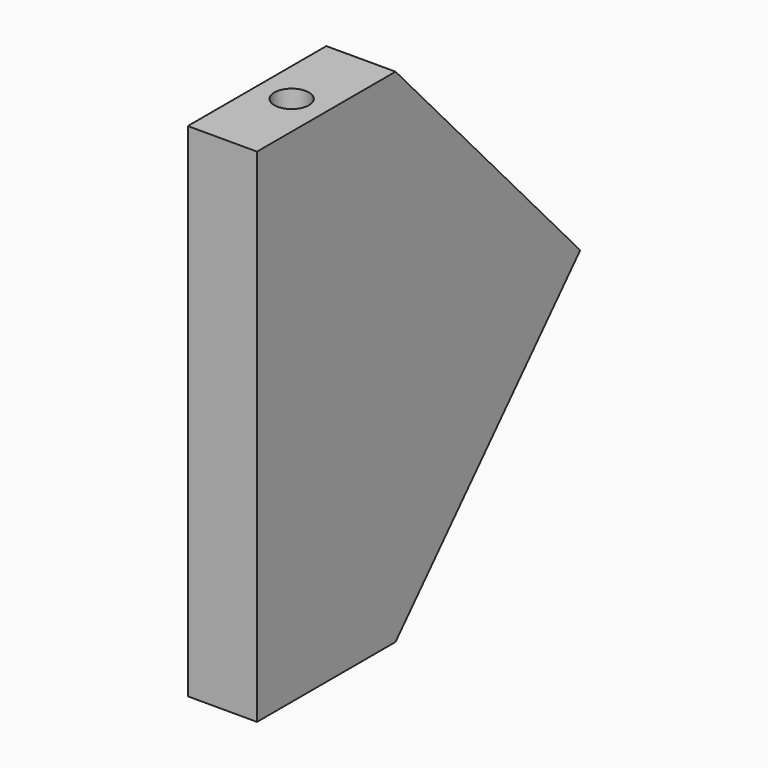
from build123d import *

# Parameters (mm, degrees)
F1_DEPTH = 12
F2_R     = 3
F3_DEPTH = 20
F4_R     = 3
F5_DEPTH = 20
F6_W     = 30
F6_H     = 87
F7_DEPTH = 25


with BuildPart() as f1:
    # F0 (on Right) → F1 (new body)
    with BuildSketch(Plane.YZ):
        Polygon((0, 87), (0, 0), (60, 0), (100, 43.5), (60, 87), align=None)
    extrude(amount=F1_DEPTH)

    # F2 (on face) → F3 (cut)
    with BuildSketch(Plane.XY.offset(87)):
        with Locations((6, 45)):
            Circle(F2_R)
        with Locations((6, 15)):
            Circle(F2_R)
        with Locations((6, -15)):
            Circle(F2_R)
    extrude(amount=-F3_DEPTH, mode=Mode.SUBTRACT)

    # F4 (on face) → F5 (cut)
    with BuildSketch(Plane(origin=(0, 0, 0), x_dir=(1, 0, 0), z_dir=(0, 0, -1))):
        with BuildLine():
            ThreePointArc((9, -15), (8.12132, -12.87868), (6, -12))
            Line((6, -12), (6, -15))
            Line((6, -15), (6, -18))
            ThreePointArc((6, -18), (8.12132, -17.12132), (9, -15))
        make_face()
        with BuildLine():
            ThreePointArc((9, -45), (8.12132, -42.87868), (6, -42))
            Line((6, -42), (6, -45))
            Line((6, -45), (9, -45))
        make_face()
        with BuildLine():
            Line((6, -45), (6, -42))
            ThreePointArc((6, -42), (3, -45), (6, -48))
            Line((6, -48), (6, -45))
        make_face()
        with BuildLine():
            Line((6, -15), (6, -12))
            ThreePointArc((6, -12), (3, -15), (6, -18))
            Line((6, -18), (6, -15))
        make_face()
        with BuildLine():
            Line((9, -45), (6, -45))
            Line((6, -45), (6, -48))
            ThreePointArc((6, -48), (8.12132, -47.12132), (9, -45))
        make_face()
        with Locations((6, 15)):
            Circle(F4_R)
    extrude(amount=-F5_DEPTH, mode=Mode.SUBTRACT)

    # F6 (on face) → F7 (cut)
    with BuildSketch(Plane.YZ.offset(12)):
        with Locations((15, 43.5)):
            Rectangle(F6_W, F6_H)
    extrude(amount=-F7_DEPTH, mode=Mode.SUBTRACT)


solid = f1.part
